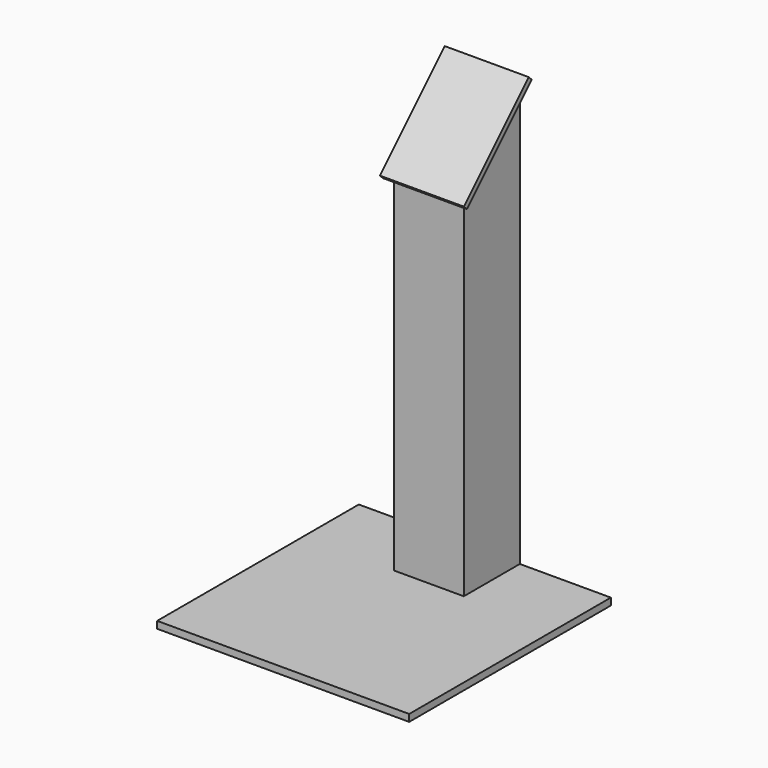
from build123d import *

# Parameters (mm, degrees)
F0_W     = 914.4
F0_H     = 914.4
F1_DEPTH = 25.4
F2_W     = 254
F2_H     = 254
F3_DEPTH = 1524
F5_DEPTH = 584.201
F6_W     = 304.8
F6_H     = 415.925
F7_DEPTH = 19.05


with BuildPart() as f1:
    # F0 (on Top) → F1 (new body)
    with BuildSketch(Plane.XY):
        with Locations((457.2, 457.2)):
            Rectangle(F0_W, F0_H)
    extrude(amount=F1_DEPTH)

    # F2 (on face) → F3 (join)
    with BuildSketch(Plane.XY.offset(25.4)):
        with Locations((457.2, 787.4)):
            Rectangle(F2_W, F2_H)
    extrude(amount=F3_DEPTH)

    # F4 (on face) → F5 (cut, through all)
    with BuildSketch(Plane.YZ.offset(584.2)):
        Polygon((660.4, 1295.4), (914.4, 1549.4), (660.4, 1549.4), align=None)
    extrude(amount=-F5_DEPTH, mode=Mode.SUBTRACT)

    # F6 (on face) → F7 (join)
    with BuildSketch(Plane(origin=(0, -317.5, 317.5), x_dir=(1, 0, 0), z_dir=(0, -0.707107, 0.707107))):
        with Locations((457.2, 1565.521943)):
            Rectangle(F6_W, F6_H)
    extrude(amount=F7_DEPTH)


solid = f1.part
